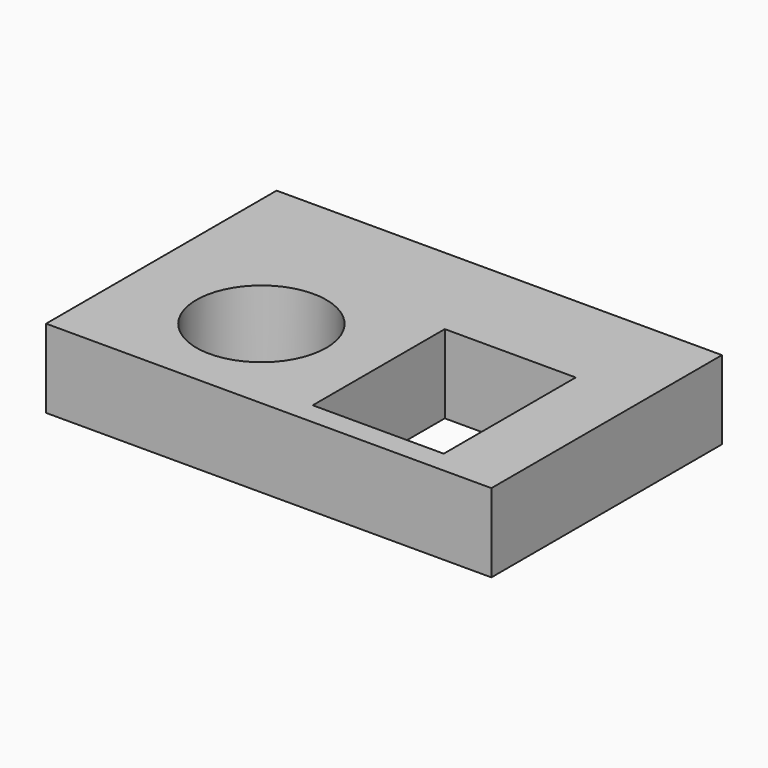
from build123d import *

# Parameters (mm, degrees)
F0_W     = 17
F0_H     = 11
F0_R     = 2.48
F0_W_2   = 5
F0_H_2   = 6.3
F1_DEPTH = 3


with BuildPart() as f1:
    # F0 (on Top) → F1 (new body)
    with BuildSketch(Plane.XY):
        with Locations((8.5, 5.5)):
            Rectangle(F0_W, F0_H)
        with Locations((5.02, 4)):
            Circle(F0_R, mode=Mode.SUBTRACT)
        with Locations((12, 4)):
            Rectangle(F0_W_2, F0_H_2, mode=Mode.SUBTRACT)
    extrude(amount=F1_DEPTH)


solid = f1.part
